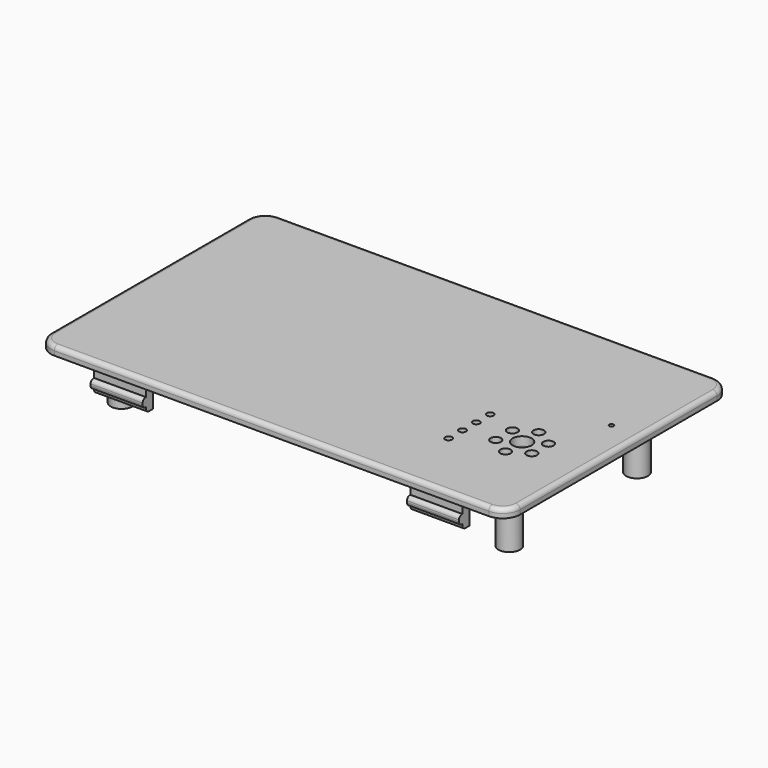
from build123d import *

# Parameters (mm, degrees)
SKETCH012_W     = 64.82
SKETCH012_H     = 108.25
PAD003_DEPTH    = 2
SKETCH017_W     = 58.42
SKETCH017_H     = 101.85
PAD004_DEPTH    = 1
SKETCH018_R     = 2.5
PAD005_DEPTH    = 12.8
SKETCH019_R     = 1.4
POCKET008_DEPTH = 4
SKETCH020_R     = 0.8
SKETCH020_R_2   = 2.2
SKETCH020_R_3   = 0.5
SKETCH020_R_4   = 1.2
POCKET009_DEPTH = 3.001
SKETCH021_W     = 2
SKETCH021_H     = 12
PAD006_DEPTH    = 6.2
SKETCH022_W     = 12
SKETCH022_H     = 2
PAD007_DEPTH    = 1
SKETCH023_W     = 12
SKETCH023_H     = 2
PAD008_DEPTH    = 1
FILLET004_R     = 4
FILLET005_R     = 1
FILLET006_R     = 1
FILLET007_R     = 0.8
FILLET008_R     = 0.8
FILLET009_R     = 0.8
FILLET011_R     = 1.6
FILLET012_R     = 2
FILLET015_R     = 1
SKETCH030_R     = 1.6
POCKET014_DEPTH = 1.6


with BuildPart() as part:
    # Sketch012 (on DatumPlane) → Pad003 (new body)
    with BuildSketch(Plane(origin=(50.925, 29.21, 49), x_dir=(0, 1, 0), z_dir=(0, 0, 1))):
        Rectangle(SKETCH012_W, SKETCH012_H)
    extrude(amount=PAD003_DEPTH)

    # Sketch017 (on Face5 of Pad003) → Pad004 (join)
    with BuildSketch(Plane(origin=(50.925, 29.21, 49), x_dir=(0, 1, 0), z_dir=(0, 0, -1))):
        Rectangle(SKETCH017_W, SKETCH017_H)
    extrude(amount=PAD004_DEPTH)

    # Sketch018 (on DatumPlane) → Pad005 (join)
    with BuildSketch(Plane(origin=(50.925, 29.21, 48), x_dir=(0, 1, 0), z_dir=(0, 0, -1))):
        with Locations((-18.415, 43.639)):
            Circle(SKETCH018_R)
        with Locations((18.415, 43.639)):
            Circle(SKETCH018_R)
        with Locations((-18.415, -45.82)):
            Circle(SKETCH018_R)
        with Locations((18.415, -45.82)):
            Circle(SKETCH018_R)
    extrude(amount=PAD005_DEPTH)

    # Sketch019 (on DatumPlane) → Pocket008 (cut)
    with BuildSketch(Plane(origin=(50.925, 29.21, 35.2), x_dir=(0, 1, 0), z_dir=(0, 0, -1))):
        with Locations((-18.415, -45.82)):
            Circle(SKETCH019_R)
        with Locations((18.415, -45.82)):
            Circle(SKETCH019_R)
        with Locations((-18.415, 43.639)):
            Circle(SKETCH019_R)
        with Locations((18.415, 43.639)):
            Circle(SKETCH019_R)
    extrude(amount=-POCKET008_DEPTH, mode=Mode.SUBTRACT)

    # Sketch020 (on DatumPlane) → Pocket009 (cut, through all)
    with BuildSketch(Plane(origin=(50.925, 29.21, 48), x_dir=(0, 1, 0), z_dir=(0, 0, -1))):
        with Locations((-16.21, 27.875)):
            Circle(SKETCH020_R)
        with Locations((-12.21, 27.875)):
            Circle(SKETCH020_R)
        with Locations((-8.21, 27.875)):
            Circle(SKETCH020_R)
        with Locations((-4.21, 27.875)):
            Circle(SKETCH020_R)
        with Locations((-9.01, 39.075)):
            Circle(SKETCH020_R_2)
        with Locations((6.07, 47.635)):
            Circle(SKETCH020_R_3)
        with Locations((-6.61, 34.918078)):
            Circle(SKETCH020_R_4)
        with Locations((-11.41, 34.918078)):
            Circle(SKETCH020_R_4)
        with Locations((-13.81, 39.075)):
            Circle(SKETCH020_R_4)
        with Locations((-11.41, 43.231922)):
            Circle(SKETCH020_R_4)
        with Locations((-6.61, 43.231922)):
            Circle(SKETCH020_R_4)
        with Locations((-4.21, 39.075)):
            Circle(SKETCH020_R_4)
    extrude(amount=-POCKET009_DEPTH, mode=Mode.SUBTRACT)

    # Sketch021 (on DatumPlane) → Pad006 (join)
    with BuildSketch(Plane(origin=(50.925, 29.21, 49), x_dir=(0, 1, 0), z_dir=(0, 0, -1))):
        with Locations((-29.21, -36.725)):
            Rectangle(SKETCH021_W, SKETCH021_H)
        with Locations((-29.21, 36.275)):
            Rectangle(SKETCH021_W, SKETCH021_H)
        with Locations((29.21, 36.275)):
            Rectangle(SKETCH021_W, SKETCH021_H)
        with Locations((29.21, -36.725)):
            Rectangle(SKETCH021_W, SKETCH021_H)
    extrude(amount=PAD006_DEPTH)

    # Sketch022 (on Face14 of Pad006) → Pad007 (join)
    with BuildSketch(Plane(origin=(50.925, 59.42, 49), x_dir=(-1, 0, 0), z_dir=(0, 1, 0))):
        with Locations((-36.275, -4)):
            Rectangle(SKETCH022_W, SKETCH022_H)
        with Locations((36.725, -4)):
            Rectangle(SKETCH022_W, SKETCH022_H)
    extrude(amount=PAD007_DEPTH)

    # Sketch023 (on Face24 of Pad007) → Pad008 (join)
    with BuildSketch(Plane(origin=(50.925, -1, 49), x_dir=(1, 0, 0), z_dir=(0, -1, 0))):
        with Locations((-36.725, -4)):
            Rectangle(SKETCH023_W, SKETCH023_H)
        with Locations((36.275, -4)):
            Rectangle(SKETCH023_W, SKETCH023_H)
    extrude(amount=PAD008_DEPTH)

    # Fillet004
    fillet004_edges = [part.edges().sort_by_distance(p)[0] for p in [
        (-3.2, 61.62, 50),
        (105.05, 61.62, 50),
        (105.05, -3.2, 50),
        (-3.2, -3.2, 50),
    ]]
    fillet(fillet004_edges, radius=FILLET004_R)

    # Fillet005
    fillet005_edges = [part.edges().sort_by_distance(p)[0] for p in [
        (0, 58.42, 48.5),
        (0, 0, 48.5),
        (101.85, 0, 48.5),
        (101.85, 58.42, 48.5),
    ]]
    fillet(fillet005_edges, radius=FILLET005_R)

    # Fillet006
    fillet006_edges = [part.edges().sort_by_distance(p)[0] for p in [
        (50.925, 61.62, 51),
    ]]
    fillet(fillet006_edges, radius=FILLET006_R)

    # Fillet007
    fillet007_edges = [part.edges().sort_by_distance(p)[0] for p in [
        (87.2, 59.42, 42.8),
        (14.2, 59.42, 42.8),
        (14.2, -1, 42.8),
        (87.2, -1, 42.8),
    ]]
    fillet(fillet007_edges, radius=FILLET007_R)

    # Fillet008
    fillet008_edges = [part.edges().sort_by_distance(p)[0] for p in [
        (14.2, -2, 44),
        (87.2, -2, 44),
        (87.2, 60.42, 44),
        (14.2, 60.42, 44),
    ]]
    fillet(fillet008_edges, radius=FILLET008_R)

    # Fillet009
    fillet009_edges = [part.edges().sort_by_distance(p)[0] for p in [
        (87.2, -2, 46),
        (14.2, -2, 46),
        (87.2, 60.42, 46),
        (14.2, 60.42, 46),
    ]]
    fillet(fillet009_edges, radius=FILLET009_R)

    # Fillet011
    fillet011_edges = [part.edges().sort_by_distance(p)[0] for p in [
        (5.105, 8.295, 48),
        (5.105, 45.125, 48),
        (94.564, 8.295, 48),
        (94.564, 45.125, 48),
    ]]
    fillet(fillet011_edges, radius=FILLET011_R)

    # Fillet012
    fillet012_edges = [part.edges().sort_by_distance(p)[0] for p in [
        (87.2, 1, 48),
        (87.2, 57.42, 48),
        (14.2, 1, 48),
        (14.2, 57.42, 48),
    ]]
    fillet(fillet012_edges, radius=FILLET012_R)

    # Fillet015
    fillet015_edges = [part.edges().sort_by_distance(p)[0] for p in [
        (90, 18, 48),
    ]]
    fillet(fillet015_edges, radius=FILLET015_R)

    # Sketch030 (on Face1 of Fillet015) → Pocket014 (cut)
    with BuildSketch(Plane(origin=(50.925, 29.21, 48), x_dir=(0, 1, 0), z_dir=(0, 0, -1))):
        with Locations((-16.21, 27.875)):
            Circle(SKETCH030_R)
        with Locations((-12.21, 27.875)):
            Circle(SKETCH030_R)
        with Locations((-8.21, 27.875)):
            Circle(SKETCH030_R)
        with Locations((-4.21, 27.875)):
            Circle(SKETCH030_R)
    extrude(amount=-POCKET014_DEPTH, mode=Mode.SUBTRACT)


with BuildPart() as part_1:
    # Body002 placement: moved
    add(part.part.moved(Location((0, 0, 7))))


solid = part_1.part
